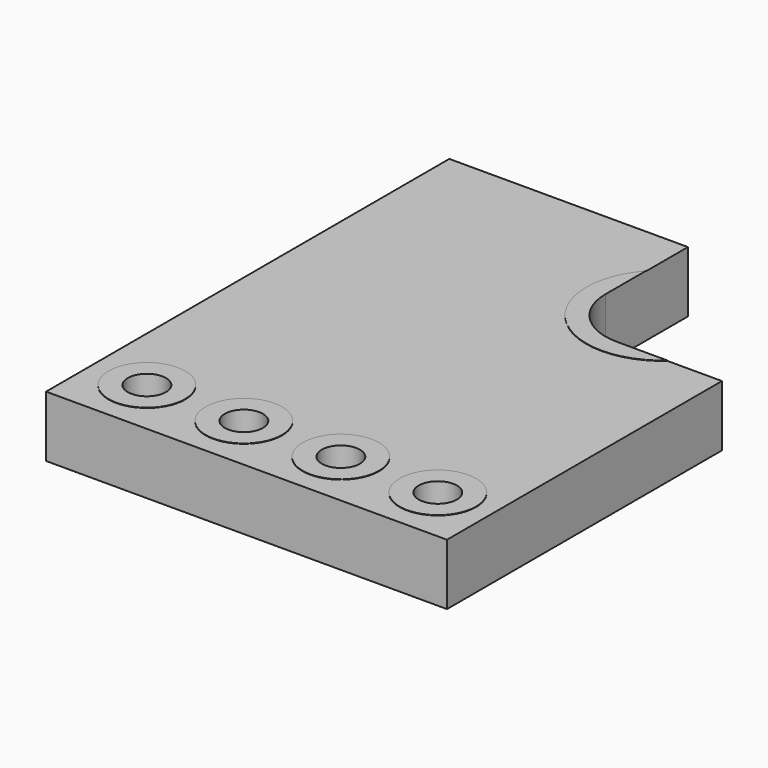
from build123d import *

# Parameters (mm, degrees)
BOX_W        = 10.5
BOX_H        = 13.2
BOX_DEPTH    = 1.6
SKETCH_R     = 1
SKETCH_R_2   = 2
PAD_DEPTH    = 0.01
SKETCH001_R  = 0.5
POCKET_DEPTH = 1.611
SKETCH002_W  = 2.5
SKETCH002_H  = 2.5
PAD001_DEPTH = 1
FILLET_R     = 0.5
FILLET001_R  = 0.3


with BuildPart() as part:
    # Box → Box (new body)
    with BuildSketch(Plane.XY):
        with Locations((5.25, 6.6)):
            Rectangle(BOX_W, BOX_H)
    extrude(amount=BOX_DEPTH)

    # Sketch → Pad (new body)
    with BuildSketch(Plane.XY.offset(1.6)):
        with Locations((1.44, 1.5)):
            Circle(SKETCH_R)
        with Locations((3.98, 1.5)):
            Circle(SKETCH_R)
        with Locations((6.52, 1.5)):
            Circle(SKETCH_R)
        with Locations((9.06, 1.5)):
            Circle(SKETCH_R)
        with Locations((7.75, 10.5)):
            Circle(SKETCH_R_2)
    extrude(amount=PAD_DEPTH)

    # Sketch001 → Pocket (cut, through all)
    with BuildSketch(Plane.XY.offset(1.61)):
        with Locations((1.44, 1.5)):
            Circle(SKETCH001_R)
        with Locations((3.98, 1.5)):
            Circle(SKETCH001_R)
        with Locations((6.52, 1.5)):
            Circle(SKETCH001_R)
        with Locations((9.06, 1.5)):
            Circle(SKETCH001_R)
        with BuildLine():
            ThreePointArc((6.25, 10.5), (6.68934, 9.43934), (7.75, 9))
            Line((7.75, 9), (10.5, 9))
            Line((10.5, 9), (10.5, 13.2))
            Line((6.25, 13.2), (10.5, 13.2))
            Line((6.25, 10.5), (6.25, 13.2))
        make_face()
    extrude(amount=-POCKET_DEPTH, mode=Mode.SUBTRACT)

    # Sketch002 → Pad001 (new body)
    with BuildSketch(Plane(origin=(0, 0, 0), x_dir=(1, 0, 0), z_dir=(0, 0, -1))):
        with Locations((2.95, -10.6)):
            Rectangle(SKETCH002_W, SKETCH002_H)
    extrude(amount=PAD001_DEPTH)

    # Fillet
    fillet_edges = [part.edges().sort_by_distance(p)[0] for p in [
        (1.7, 11.85, -0.5),
        (4.2, 11.85, -0.5),
        (4.2, 9.35, -0.5),
        (1.7, 9.35, -0.5),
    ]]
    fillet(fillet_edges, radius=FILLET_R)

    # Fillet001
    fillet001_edges = [part.edges().sort_by_distance(p)[0] for p in [
        (4.2, 10.6, -1),
        (2.95, 9.35, -1),
        (1.7, 10.6, -1),
        (2.95, 11.85, -1),
    ]]
    fillet(fillet001_edges, radius=FILLET001_R)


solid = part.part
